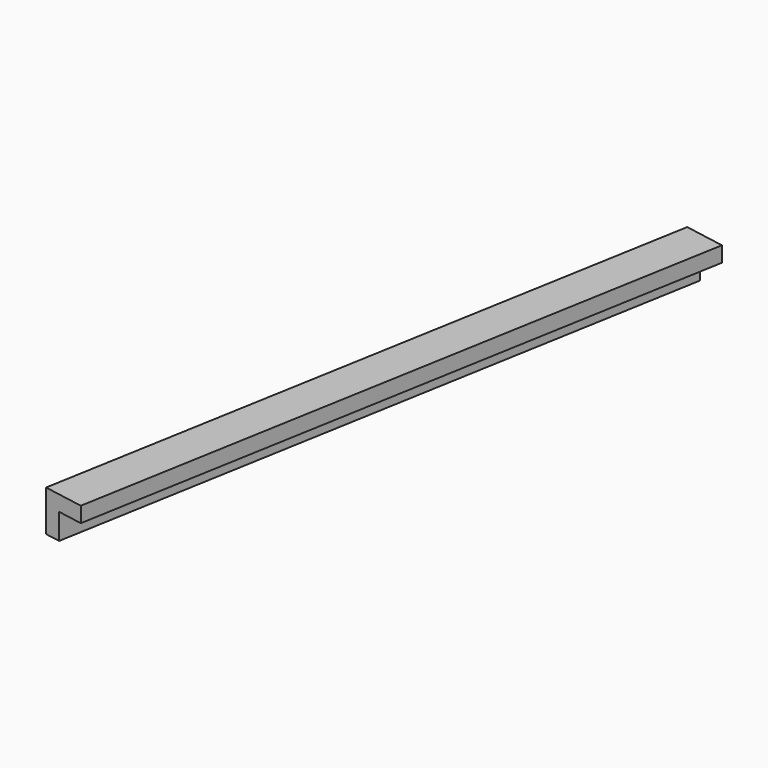
from build123d import *

# Parameters (mm, degrees)
BOX181_W               = 0.8
BOX181_H               = 13
BOX181_DEPTH           = 0.8
BOX182_W               = 0.8
BOX182_H               = 13
BOX182_DEPTH           = 0.8
CUT094_PLACEMENT_ANGLE = 170


with BuildPart() as cubo181:
    # Box181 → Box181 (new body)
    with BuildSketch(Plane.XY):
        with Locations((0.4, 6.5)):
            Rectangle(BOX181_W, BOX181_H)
    extrude(amount=BOX181_DEPTH)


with BuildPart() as obj1:
    # Box182 → Box182 (new body)
    with BuildSketch(Plane(origin=(0.3, 0, 0.3), x_dir=(1, 0, 0), z_dir=(0, 0, 1))):
        with Locations((0.4, 6.5)):
            Rectangle(BOX182_W, BOX182_H)
    extrude(amount=BOX182_DEPTH)

    # Cut094: cut Cubo181
    add(cubo181.part, mode=Mode.SUBTRACT)


with BuildPart() as obj1_1:
    # Cut094 placement: moved
    add(obj1.part.moved(Location((-136.5, 188.9, -1.45))).rotate(Axis((-136.5, 188.9, -1.45), (0, 0, 1)), CUT094_PLACEMENT_ANGLE))


solid = obj1_1.part
